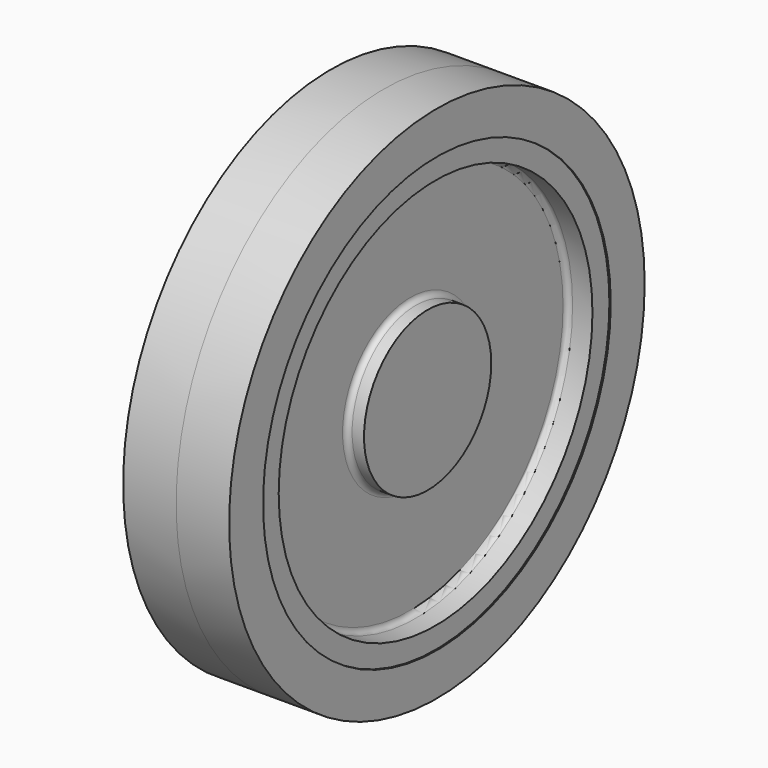
from build123d import *


with BuildPart() as obj1:
    # Sketch177 → Revolution009 (revolve)
    with BuildSketch(Plane.XY):
        with BuildLine():
            Line((0, 49), (10, 49))
            Line((10, 49), (10, 41))
            Line((10, 41), (9.75, 41))
            Line((9.75, 41), (9.75, 37))
            Line((9.75, 37), (6, 37))
            ThreePointArc((6, 37), (5.292892, 36.707106), (5, 35.999997))
            Line((5, 35.999997), (5, 16))
            ThreePointArc((5, 16), (5.292893, 15.292893), (6, 15))
            Line((6, 15), (8.25, 15))
            Line((8.25, 15), (8.25, 0))
            Line((8.25, 0), (0, 0))
            Line((0, 0), (0, 49))
        make_face()
    revolve(axis=Axis((0, 0, 0), (1, 0, 0)))


with BuildPart() as wheel:
    # Part__Mirroring010: instance of obj1
    add(obj1.part.mirror(Plane(origin=(0, 0, 0), x_dir=(0, -1, 0), z_dir=(1, 0, 0))))

    # Fusion004020026: union obj1
    add(obj1.part)


with BuildPart() as wheel_1:
    # Fusion004020026 placement: moved
    add(wheel.part.moved(Location((65, 0, 0))))


solid = wheel_1.part
